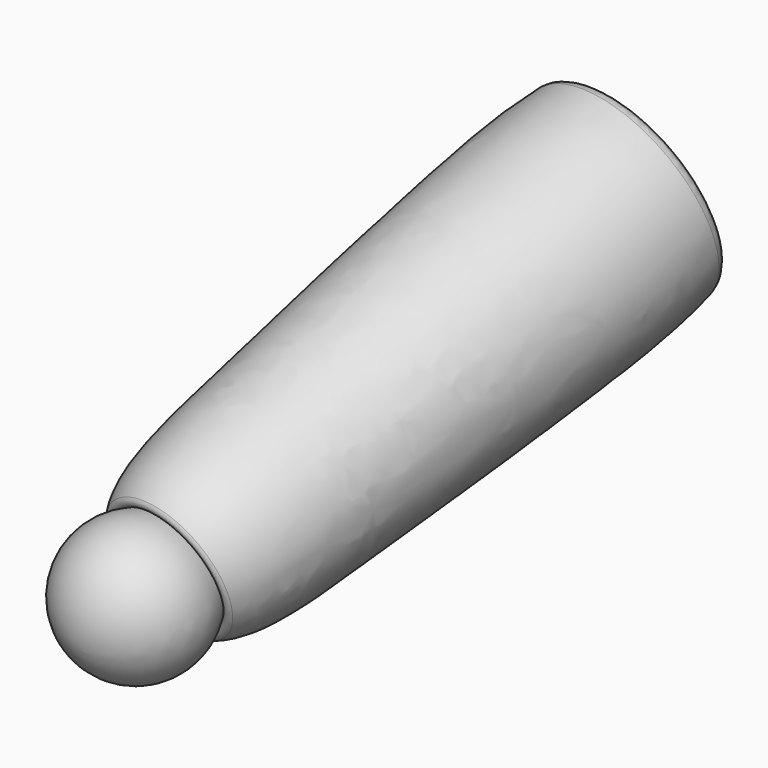
from build123d import *

# Parameters (mm, degrees)
FILLET091_R             = 6
FILLET092_R             = 3
BODY055_ROLL_ANGLE      = -0.64968
BODY055_PITCH_ANGLE     = 17.98866
BODY055_PLACEMENT_ANGLE = -98.102834


with BuildPart() as part:
    # Sketch185 → Revolution095 (revolve)
    with BuildSketch(Plane.XY):
        with BuildLine():
            Line((15.9442, 0), (306.848053, 0))
            add(Edge.make_bspline(
                [(306.848053, 0), (324.317413, 42.311157), (231.745069, 46.553256), (127.654996, 54.056504), (-18.918443, 56.908137), (15.9442, 0)],
                knots=[0, 0, 0, 0, 0.333333, 0.666667, 1, 1, 1, 1], degree=3))
        make_face()
    revolve(axis=Axis((0, 0, 0), (1, 0, 0)))

    # Sketch186 → Groove089 (revolve, cut)
    with BuildSketch(Plane.XY):
        with BuildLine():
            Line((-60, 0), (60, 0))
            ThreePointArc((60, 0), (0, 60), (-60, 0))
        make_face()
    revolve(axis=Axis((0, 0, 0), (1, 0, 0)), mode=Mode.SUBTRACT)

    # Fillet091
    fillet091_edges = [part.edges().sort_by_distance(p)[0] for p in [
        (33.106232, -50.039758, 0),
    ]]
    fillet(fillet091_edges, radius=FILLET091_R)

    # Sketch187 → Groove090 (revolve, cut)
    with BuildSketch(Plane.XY):
        with BuildLine():
            Line((285, 0), (355, 0))
            ThreePointArc((355, 0), (320, 35), (285, 0))
        make_face()
    revolve(axis=Axis((0, 0, 0), (1, 0, 0)), mode=Mode.SUBTRACT)

    # Fillet092
    fillet092_edges = [part.edges().sort_by_distance(p)[0] for p in [
        (304.668851, -31.463564, 0),
    ]]
    fillet(fillet092_edges, radius=FILLET092_R)

    # Sketch187 → Revolution096 (revolve)
    with BuildSketch(Plane.XY):
        with BuildLine():
            Line((285, 0), (355, 0))
            ThreePointArc((355, 0), (320, 35), (285, 0))
        make_face()
    revolve(axis=Axis((0, 0, 0), (1, 0, 0)))


with BuildPart() as part_1:
    # Body055 roll: moved
    add(part.part.rotate(Axis((0, 0, 0), (1, 0, 0)), BODY055_ROLL_ANGLE))


with BuildPart() as part_2:
    # Body055 pitch: moved
    add(part_1.part.rotate(Axis((0, 0, 0), (0, 1, 0)), BODY055_PITCH_ANGLE))


with BuildPart() as part_3:
    # Body055 placement: moved
    add(part_2.part.moved(Location((-184, 1454.018312, 0.388141))).rotate(Axis((-184, 1454.018312, 0.388141), (0, 0, 1)), BODY055_PLACEMENT_ANGLE))


solid = part_3.part
